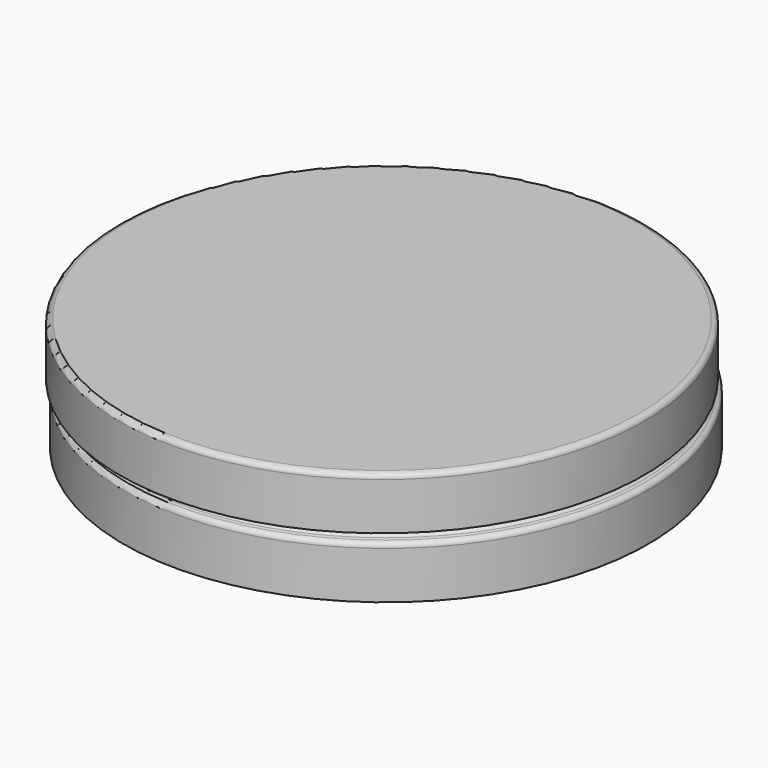
from build123d import *


with BuildPart() as f2:
    # F0 (on Front) → F2 (revolve)
    with BuildSketch(Plane.XZ):
        with BuildLine():
            Line((-50, 9), (-50, 0))
            Line((-50, 0), (-49, 0))
            Line((-49, 0), (-49, 9))
            Line((-49, 9), (0, 9))
            Line((0, 9), (0, 10))
            Line((0, 10), (-49, 10))
            ThreePointArc((-49, 10), (-49.707107, 9.707107), (-50, 9))
        make_face()
    revolve(axis=Axis((0, 0, 9.5), (0, 0, -1)))


with BuildPart() as f3:
    # F1 (on Front) → F3 (revolve)
    with BuildSketch(Plane.XZ):
        with BuildLine():
            Line((-46.145053, -0.218923), (-46.145053, 3.668447))
            Line((-46.145053, 3.668447), (-47.145053, 3.668447))
            Line((-47.145053, 3.668447), (-47.145053, -0.218923))
            ThreePointArc((-47.145053, -0.218923), (-47.3616, -0.840375), (-47.917457, -1.192679))
            Line((-47.917457, -1.192679), (-48.476282, -1.323293))
            ThreePointArc((-48.476282, -1.323293), (-49.032139, -1.675597), (-49.248686, -2.297049))
            Line((-49.248686, -2.297049), (-49.248686, -11.331553))
            Line((-49.248686, -11.331553), (-48.6629, -11.331553))
            ThreePointArc((-48.6629, -11.331553), (-48.280216, -11.255432), (-47.955793, -11.038659))
            Line((-47.955793, -11.038659), (-47.541579, -10.624446))
            ThreePointArc((-47.541579, -10.624446), (-47.217156, -10.407673), (-46.834473, -10.331553))
            Line((-46.834473, -10.331553), (0.751314, -10.331553))
            Line((0.751314, -10.331553), (0.751314, -9.331553))
            Line((0.751314, -9.331553), (-46.834473, -9.331553))
            ThreePointArc((-46.834473, -9.331553), (-47.217156, -9.407673), (-47.541579, -9.624446))
            Line((-47.541579, -9.624446), (-48.248686, -10.331553))
            Line((-48.248686, -10.331553), (-48.248686, -2.297049))
            Line((-48.248686, -2.297049), (-47.689861, -2.166434))
            ThreePointArc((-47.689861, -2.166434), (-46.578148, -1.461826), (-46.145053, -0.218923))
        make_face()
    revolve(axis=Axis((0.751314, 0, -9.831553), (0, 0, -1)))


solid = Compound([f2.part, f3.part])
